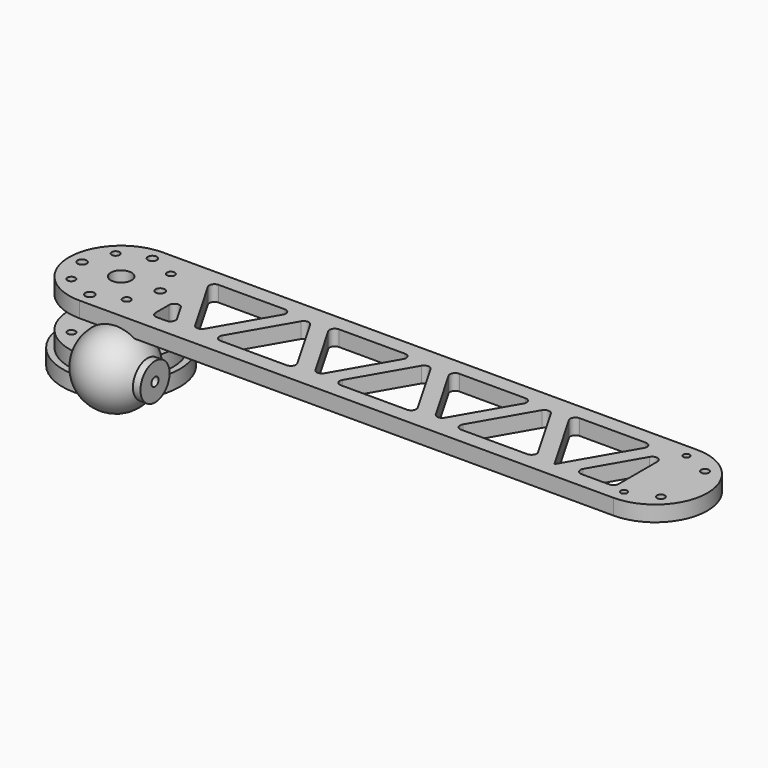
from build123d import *

# Parameters (mm, degrees)
F0_R      = 1.75
F0_R_2    = 1.5
F0_R_3    = 1.25
F1_DEPTH  = 6
F3_DEPTH  = 6.001
F4_R      = 2
F9_R      = 1.7
F10_DEPTH = 7.7
F11_R     = 20
F11_R_2   = 1.5
F11_R_3   = 1.75
F11_R_4   = 4
F12_DEPTH = 6
F13_R     = 22.5
F13_R_2   = 1.5
F13_R_3   = 1.25
F13_R_4   = 4
F14_DEPTH = 6


with BuildPart() as f1:
    # F0 (on Top) → F1 (new body)
    with BuildSketch(Plane.XY):
        with BuildLine():
            ThreePointArc((0, 40), (-20, 20), (0, 0))
            Line((0, 0), (205, 0))
            ThreePointArc((205, 0), (225, 20), (205, 40))
            Line((205, 40), (0, 40))
        make_face()
        with Locations((0, 5)):
            Circle(F0_R, mode=Mode.SUBTRACT)
        with Locations((-10.6066017178, 9.3933982822)):
            Circle(F0_R_2, mode=Mode.SUBTRACT)
        with Locations((10.6066017178, 9.3933982822)):
            Circle(F0_R_2, mode=Mode.SUBTRACT)
        with Locations((205, 5)):
            Circle(F0_R_3, mode=Mode.SUBTRACT)
        with Locations((215.6066017178, 9.3933982822)):
            Circle(F0_R_2, mode=Mode.SUBTRACT)
        with Locations((-15, 20)):
            Circle(F0_R, mode=Mode.SUBTRACT)
        with BuildLine():
            ThreePointArc((4, 20), (-3.69551813, 18.4692662705), (2.8284271247, 22.8284271247))
            ThreePointArc((2.8284271247, 22.8284271247), (3.69551813, 21.5307337295), (4, 20))
        make_face(mode=Mode.SUBTRACT)
        with Locations((15, 20)):
            Circle(F0_R, mode=Mode.SUBTRACT)
        with Locations((-10.6066017178, 30.6066017178)):
            Circle(F0_R_2, mode=Mode.SUBTRACT)
        with BuildLine():
            ThreePointArc((12.1066017178, 30.6066017178), (11.1806268663, 29.220782419), (9.545941546, 29.545941546))
            ThreePointArc((9.545941546, 29.545941546), (10.0325765693, 31.9924210166), (12.1066017178, 30.6066017178))
        make_face(mode=Mode.SUBTRACT)
        with Locations((0, 35)):
            Circle(F0_R, mode=Mode.SUBTRACT)
        with Locations((215.6066017178, 30.6066017178)):
            Circle(F0_R_2, mode=Mode.SUBTRACT)
        with Locations((205, 35)):
            Circle(F0_R_3, mode=Mode.SUBTRACT)
    extrude(amount=F1_DEPTH)

    # F2 (on face) → F3 (cut, through all)
    with BuildSketch(Plane.XY.offset(6)):
        Polygon((55.0816150746, 34), (22.75, 34), (38.9158075373, 6), align=None)
        Polygon((62.0098183049, 34), (45.8440107676, 6), (78.1756258422, 6), align=None)
        Polygon((85.1038290725, 6), (101.2696366098, 34), (68.9380215352, 34), align=None)
        Polygon((124.3636473774, 6), (108.1978398401, 34), (92.0320323028, 6), align=None)
        Polygon((131.2918506076, 6), (147.457658145, 34), (115.1260430703, 34), align=None)
        Polygon((170.5516689125, 6), (154.3858613752, 34), (138.2200538379, 6), align=None)
        Polygon((177.4798721428, 6), (193.6456796801, 34), (161.3140646055, 34), align=None)
        Polygon((200.5738829104, 6), (200.5738829104, 34), (184.4080753731, 6), align=None)
        Polygon((22.75, 22), (22.75, 6), (31.987604307, 6), align=None)
    extrude(amount=-F3_DEPTH, mode=Mode.SUBTRACT)

    # F4
    f4_edges = [f1.edges().sort_by_distance(p)[0] for p in [
        (22.75, 34, 3),
        (55.081615, 34, 3),
        (38.915808, 6, 3),
        (45.844011, 6, 3),
        (62.009818, 34, 3),
        (78.175626, 6, 3),
        (22.75, 22, 3),
        (22.75, 6, 3),
        (31.987604, 6, 3),
        (68.938022, 34, 3),
        (101.269637, 34, 3),
        (85.103829, 6, 3),
        (92.032032, 6, 3),
        (108.19784, 34, 3),
        (124.363647, 6, 3),
        (115.126043, 34, 3),
        (161.314065, 34, 3),
        (147.457658, 34, 3),
        (193.64568, 34, 3),
        (131.291851, 6, 3),
        (154.385861, 34, 3),
        (170.551669, 6, 3),
        (138.220054, 6, 3),
        (200.573883, 6, 3),
        (184.408075, 6, 3),
        (200.573883, 34, 3),
    ]]
    fillet(f4_edges, radius=F4_R)


with BuildPart() as f6:
    # F5 (on Top) → F6 (revolve)
    with BuildSketch(Plane.XY):
        with BuildLine():
            Line((0, 0), (29, 0))
            Line((29, 0), (29, 7))
            Line((29, 7), (26.124355653, 7))
            ThreePointArc((26.124355653, 7), (10.3765333686, 13.522961568), (0, 0))
        make_face()
    revolve(axis=Axis((14.5, 0, 0), (-1, 0, 0)))


with BuildPart() as f7_1:
    # F7: copy of F1
    add(f1.part.moved(Location((0, 0, 6))))


with BuildPart() as f8_1:
    # F8: copy of F7_1
    add(f7_1.part.moved(Location((0, 0, 6))))


with BuildPart() as f10_tool:
    # F9 (on face) → F10 (new body)
    with BuildSketch(Plane.YZ.offset(29)):
        Circle(F9_R)
    extrude(amount=-F10_DEPTH)


with BuildPart() as f1_1:
    add(f1.part)

    # F10: cut by f10_tool
    add(f10_tool.part, mode=Mode.SUBTRACT)


with BuildPart() as f6_1:
    add(f6.part)

    # F10: cut by f10_tool
    add(f10_tool.part, mode=Mode.SUBTRACT)


with BuildPart() as f12:
    # F11 (on face) → F12 (new body)
    with BuildSketch(Plane(origin=(0, 0, 0), x_dir=(1, 0, 0), z_dir=(0, 0, -1))):
        with Locations((0, -20)):
            Circle(F11_R)
        with Locations((-10.6066017178, -30.6066017178)):
            Circle(F11_R_2, mode=Mode.SUBTRACT)
        with Locations((0, -35)):
            Circle(F11_R_3, mode=Mode.SUBTRACT)
        with Locations((10.6066017178, -30.6066017178)):
            Circle(F11_R_2, mode=Mode.SUBTRACT)
        with Locations((-15, -20)):
            Circle(F11_R_3, mode=Mode.SUBTRACT)
        with Locations((-10.6066017178, -9.3933982822)):
            Circle(F11_R_2, mode=Mode.SUBTRACT)
        with Locations((0, -20)):
            Circle(F11_R_4, mode=Mode.SUBTRACT)
        with Locations((15, -20)):
            Circle(F11_R_3, mode=Mode.SUBTRACT)
        with Locations((0, -5)):
            Circle(F11_R_3, mode=Mode.SUBTRACT)
        with Locations((10.6066017178, -9.3933982822)):
            Circle(F11_R_2, mode=Mode.SUBTRACT)
    extrude(amount=F12_DEPTH)


with BuildPart() as f14:
    # F13 (on face) → F14 (new body)
    with BuildSketch(Plane(origin=(0, 0, -6), x_dir=(1, 0, 0), z_dir=(0, 0, -1))):
        with Locations((0, -20)):
            Circle(F13_R)
        with Locations((-10.6066017178, -30.6066017178)):
            Circle(F13_R_2, mode=Mode.SUBTRACT)
        with Locations((0, -35)):
            Circle(F13_R_3, mode=Mode.SUBTRACT)
        with Locations((10.6066017178, -30.6066017178)):
            Circle(F13_R_2, mode=Mode.SUBTRACT)
        with Locations((-15, -20)):
            Circle(F13_R_3, mode=Mode.SUBTRACT)
        with Locations((-10.6066017178, -9.3933982822)):
            Circle(F13_R_2, mode=Mode.SUBTRACT)
        with Locations((0, -20)):
            Circle(F13_R_4, mode=Mode.SUBTRACT)
        with Locations((10.6066017178, -9.3933982822)):
            Circle(F13_R_2, mode=Mode.SUBTRACT)
        with Locations((15, -20)):
            Circle(F13_R_3, mode=Mode.SUBTRACT)
        with Locations((0, -5)):
            Circle(F13_R_3, mode=Mode.SUBTRACT)
    extrude(amount=F14_DEPTH)


solid = Compound([f8_1.part, f6_1.part, f12.part, f14.part])
